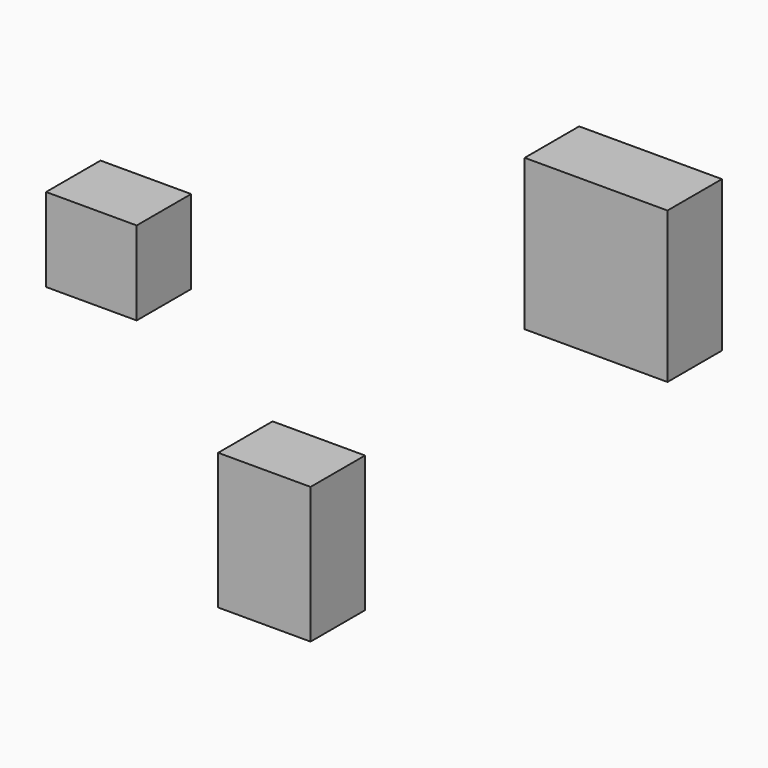
from build123d import *

# Parameters (mm, degrees)
F0_W     = 33.281528
F0_H     = 30.733693
F1_DEPTH = 25
F0_W_2   = 33.953875
F0_H_2   = 50.037868
F2_DEPTH = 25
F0_W_3   = 52.443616
F0_H_3   = 55.458013
F3_DEPTH = 25


with BuildPart() as f1:
    # F0 (on Front) → F1 (new body)
    with BuildSketch(Plane.XZ):
        with Locations((-108.921353, 0.998195)):
            Rectangle(F0_W, F0_H)
    extrude(amount=F1_DEPTH)


with BuildPart() as f2:
    # F0 (on Front) → F2 (new body)
    with BuildSketch(Plane.XZ):
        with Locations((-45.383896, -72.436448)):
            Rectangle(F0_W_2, F0_H_2)
    extrude(amount=F2_DEPTH)


with BuildPart() as f3:
    # F0 (on Front) → F3 (new body)
    with BuildSketch(Plane.XZ):
        with Locations((76.480273, 56.872276)):
            Rectangle(F0_W_3, F0_H_3)
    extrude(amount=F3_DEPTH)


solid = Compound([f1.part, f2.part, f3.part])
